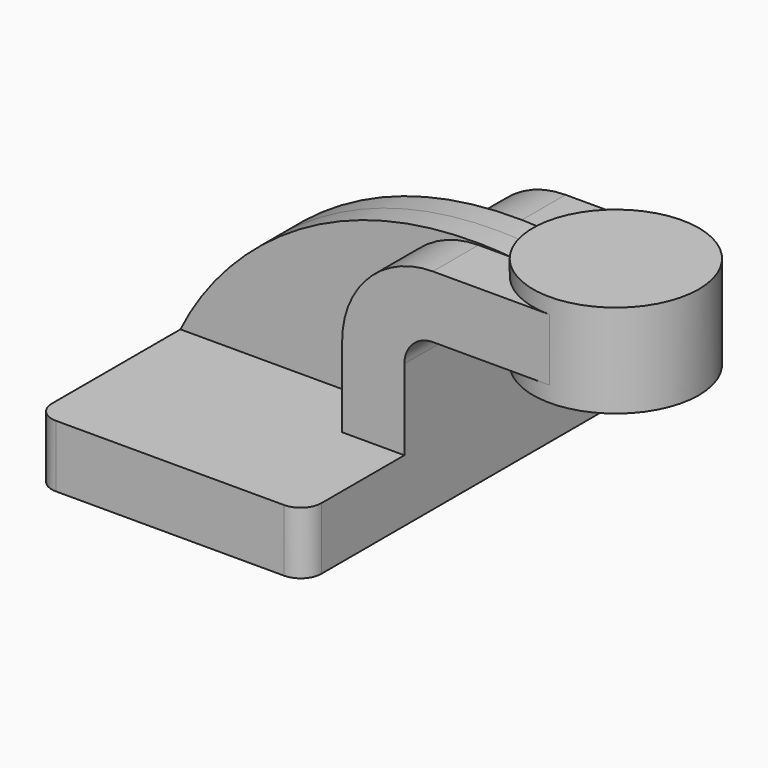
from build123d import *

# Parameters (mm, degrees)
F1_DEPTH = 63.5
F0_W     = 25.4
F0_H     = 19.05
F2_DEPTH = 25.4
F3_DEPTH = 7.9375
F5_R     = 6.35


with BuildPart() as f1:
    # F0 (on Front) → F1 (new body, symmetric)
    with BuildSketch(Plane.XZ):
        Polygon((-41.275, -9.525), (41.275, -9.525), (41.275, 9.525), (22.225, 9.525), (-41.275, 9.525), align=None)
    extrude(amount=F1_DEPTH, both=True)

    # F0 (on Front) → F2 (join, symmetric)
    with BuildSketch(Plane.XZ):
        with BuildLine():
            Line((22.225, 9.525), (41.275, 9.525))
            Line((41.275, 9.525), (41.275, 34.152947))
            ThreePointArc((41.275, 34.152947), (43.829689, 40.320511), (49.997253, 42.8752))
            Line((49.997253, 42.8752), (60.325, 42.8752))
            Line((60.325, 42.8752), (60.325, 61.9252))
            Line((60.325, 61.9252), (49.997253, 61.9252))
            ThreePointArc((49.997253, 61.9252), (30.359305, 53.790895), (22.225, 34.152947))
            Line((22.225, 34.152947), (22.225, 9.525))
        make_face()
        with Locations((73.025, 52.4002)):
            Rectangle(F0_W, F0_H)
    extrude(amount=F2_DEPTH, both=True)

    # F0 (on Front) → F3 (join, symmetric)
    with BuildSketch(Plane.XZ):
        with BuildLine():
            add(Edge.make_bspline(
                [(-41.275, 9.525), (-28.715149, 35.46061), (4.972108, 66.928945), (60.325, 61.9252)],
                knots=[0, 0, 0, 0, 114.316845, 114.316845, 114.316845, 114.316845], degree=3))
            Line((-41.275, 9.525), (22.225, 9.525))
            Line((22.225, 9.525), (22.225, 34.152947))
            ThreePointArc((22.225, 34.152947), (30.359305, 53.790895), (49.997253, 61.9252))
            Line((49.997253, 61.9252), (60.325, 61.9252))
        make_face()
    extrude(amount=F3_DEPTH, both=True)

    # F0 (on Front) → F4 (revolve)
    with BuildSketch(Plane.XZ):
        Polygon((85.725, 66.675), (85.725, 61.9252), (85.725, 42.8752), (85.725, 38.1), (111.125, 38.1), (111.125, 66.675), align=None)
    revolve(axis=Axis((85.725, 0, 52.3875), (0, 0, 1)))

    # F5
    f5_edges = [f1.edges().sort_by_distance(p)[0] for p in [
        (41.275, -63.5, 0),
        (-41.275, -63.5, 0),
        (-41.275, 63.5, 0),
        (41.275, 63.5, 0),
    ]]
    fillet(f5_edges, radius=F5_R)


solid = f1.part
